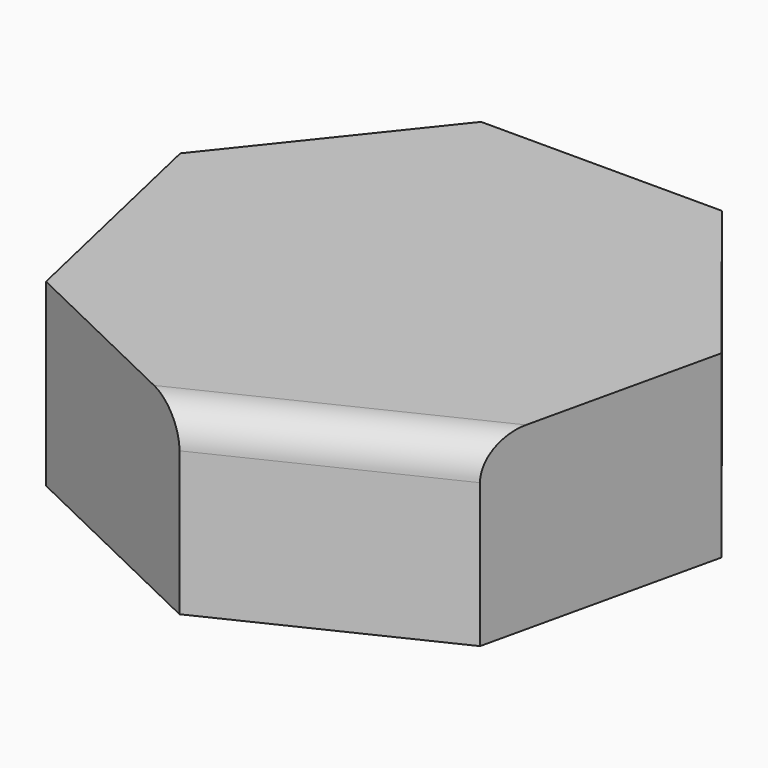
from build123d import *

# Parameters (mm, degrees)
F1_DEPTH = 25.4
F2_R     = 5.08


with BuildPart() as f1:
    # F0 (on Top) → F1 (new body)
    with BuildSketch(Plane.XY):
        Polygon((17.004497, 35.310201), (-17.004497, 35.310201), (-38.208757, 8.7209), (-30.641044, -24.435417), (0, -39.191367), (30.641044, -24.435417), (38.208757, 8.7209), align=None)
    extrude(amount=F1_DEPTH)

    # F2
    f2_edges = [f1.edges().sort_by_distance(p)[0] for p in [
        (15.320522, -31.813392, 25.4),
    ]]
    fillet(f2_edges, radius=F2_R)


solid = f1.part
